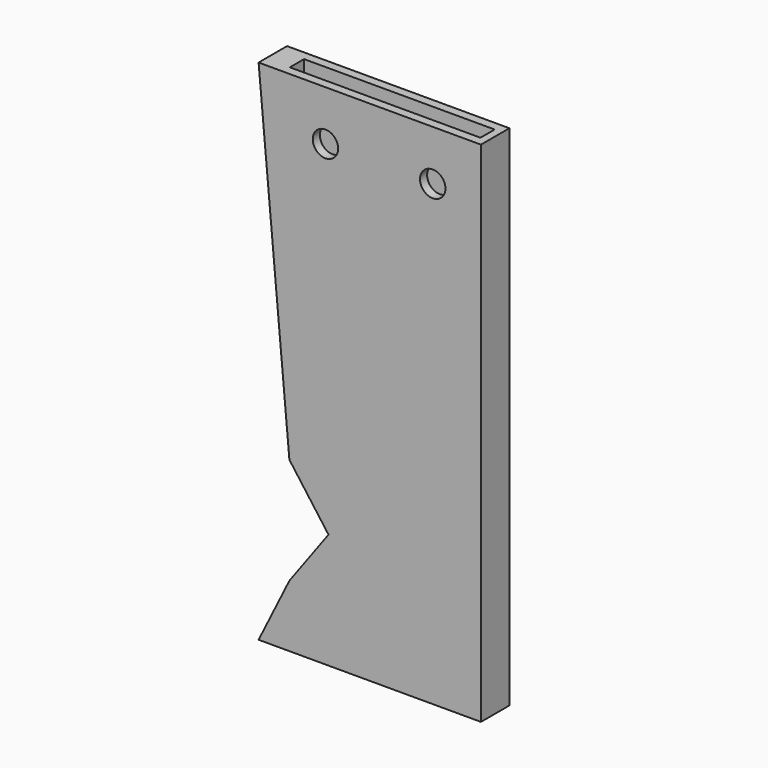
from build123d import *

# Parameters (mm, degrees)
F0_R     = 1.27
F1_DEPTH = 3.556
F2_W     = 19.05
F2_H     = 1.778
F3_DEPTH = 48.26


with BuildPart() as f1:
    # F0 (on Front) → F1 (new body)
    with BuildSketch(Plane.XZ):
        Polygon((-21.582347, 55.370963), (-43.807347, 55.370963), (-40.730689, 21.41812), (-36.822347, 16.094806), (-40.730689, 10.771491), (-43.807347, 4.570963), (-21.582347, 4.570963), align=None)
        with Locations((-37.126201, 50.380394)):
            Circle(F0_R, mode=Mode.SUBTRACT)
        with Locations((-26.401985, 50.352663)):
            Circle(F0_R, mode=Mode.SUBTRACT)
    extrude(amount=F1_DEPTH)

    # F2 (on face) → F3 (cut)
    with BuildSketch(Plane.XY.offset(55.370963)):
        with Locations((-31.869347, -1.778)):
            Rectangle(F2_W, F2_H)
    extrude(amount=-F3_DEPTH, mode=Mode.SUBTRACT)


solid = f1.part
